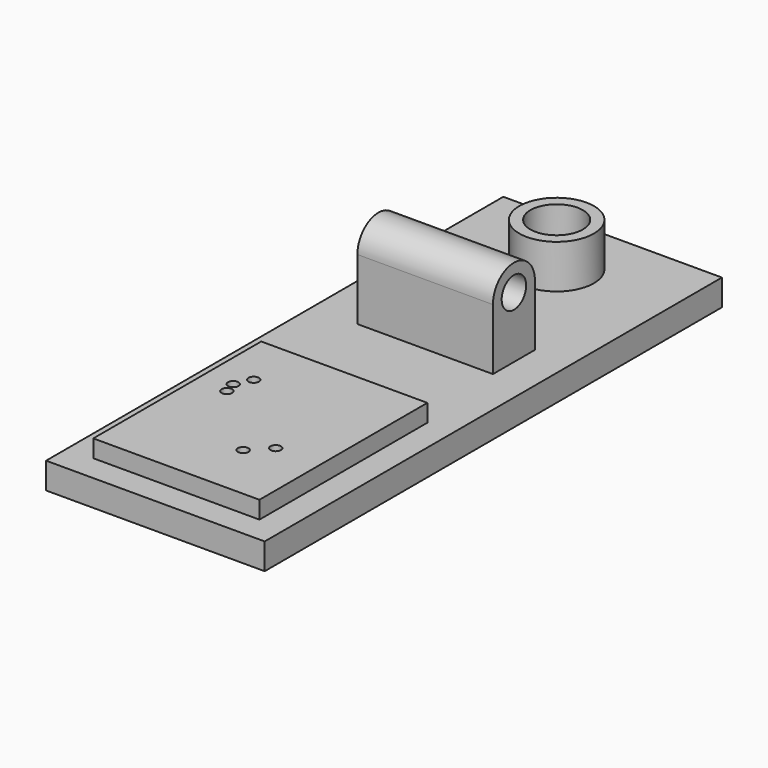
from build123d import *

# Parameters (mm, degrees)
F0_W      = 5.4119601846
F0_H      = 3
F0_W_2    = 25
F0_H_2    = 35.3582080007
F0_R      = 4.2675896262
F0_W_3    = 4.1414871812
F0_W_4    = 3.0508699417
F0_W_5    = 6.3956826925
F0_W_6    = 19
F0_H_3    = 13.8665742949
F0_R_2    = 0.6
F1_DEPTH  = 3
F2_DEPTH  = 2
F0_R_3    = 3
F3_DEPTH  = 5
F4_DEPTH  = 3
F8_DEPTH  = 15.5
F9_W      = 25
F9_H      = 65.3582080007
F9_R      = 1.5
F9_R_2    = 0.6
F10_DEPTH = 3


with BuildPart() as f1:
    # F0 (on Top) → F1 (new body)
    with BuildSketch(Plane.XY):
        with Locations((-13.243149966, -1.5)):
            Rectangle(F0_W, F0_H)
        with Locations((-9.5, 44.6791040003)):
            Rectangle(F0_W_2, F0_H_2)
        with Locations((-9.5, 54.3582080007)):
            Circle(F0_R, mode=Mode.SUBTRACT)
        with Locations((-2.0707435906, -1.5)):
            Rectangle(F0_W_3, F0_H)
        with Locations((-17.4745650291, -1.5)):
            Rectangle(F0_W_4, F0_H)
        with Locations((-7.3393285275, -1.5)):
            Rectangle(F0_W_5, F0_H)
        Polygon((0, 10.1334257051), (0, 0), (0, -3), (3, -3), (3, 27), (-22, 27), (-22, -3), (-19, -3), (-19, 0), (-19, 10.1334257051), (-19, 24), (0, 24), align=None)
        with Locations((-9.5, 17.0667128526)):
            Rectangle(F0_W_6, F0_H_3)
        with Locations((-15.8, 16)):
            Circle(F0_R_2, mode=Mode.SUBTRACT)
        with Locations((-15.4, 14.6)):
            Circle(F0_R_2, mode=Mode.SUBTRACT)
        with Locations((-14.9, 17.8)):
            Circle(F0_R_2, mode=Mode.SUBTRACT)
        Polygon((-4.1414871812, 0), (0, 0), (0, 10.1334257051), (-19, 10.1334257051), (-19, 0), (-15.9491300583, 0), (-10.5371698737, 0), align=None)
        with Locations((-7.14, 6.6)):
            Circle(F0_R_2, mode=Mode.SUBTRACT)
        with Locations((-5.1, 8.7)):
            Circle(F0_R_2, mode=Mode.SUBTRACT)
    extrude(amount=-F1_DEPTH)

    # F0 (on Top) → F2 (join)
    with BuildSketch(Plane.XY):
        with Locations((-9.5, 17.0667128526)):
            Rectangle(F0_W_6, F0_H_3)
        with Locations((-15.8, 16)):
            Circle(F0_R_2, mode=Mode.SUBTRACT)
        with Locations((-15.4, 14.6)):
            Circle(F0_R_2, mode=Mode.SUBTRACT)
        with Locations((-14.9, 17.8)):
            Circle(F0_R_2, mode=Mode.SUBTRACT)
        Polygon((-4.1414871812, 0), (0, 0), (0, 10.1334257051), (-19, 10.1334257051), (-19, 0), (-15.9491300583, 0), (-10.5371698737, 0), align=None)
        with Locations((-7.14, 6.6)):
            Circle(F0_R_2, mode=Mode.SUBTRACT)
        with Locations((-5.1, 8.7)):
            Circle(F0_R_2, mode=Mode.SUBTRACT)
    extrude(amount=F2_DEPTH)

    # F0 (on Top) → F3 (join)
    with BuildSketch(Plane.XY):
        with Locations((-9.5, 54.3582080007)):
            Circle(F0_R)
        with Locations((-9.5, 54.3582080007)):
            Circle(F0_R_3, mode=Mode.SUBTRACT)
    extrude(amount=F3_DEPTH)

    # F0 (on Top) → F4 (join)
    with BuildSketch(Plane.XY):
        with Locations((-9.5, 54.3582080007)):
            Circle(F0_R)
        with Locations((-9.5, 54.3582080007)):
            Circle(F0_R_3, mode=Mode.SUBTRACT)
        with Locations((-9.5, 54.3582080007)):
            Circle(F0_R_3)
    extrude(amount=-F4_DEPTH)

    # F7 (on offset) → F8 (join)
    with BuildSketch(Plane(origin=(-16.8, 0, 0), x_dir=(0, -1, 0), z_dir=(-1, 0, 0))):
        with BuildLine():
            ThreePointArc((-35, 7), (-38, 10), (-41, 7))
            Line((-41, 7), (-39.75, 7))
            ThreePointArc((-39.75, 7), (-38, 8.75), (-36.25, 7))
            Line((-36.25, 7), (-35, 7))
        make_face()
        with BuildLine():
            Line((-41, 7), (-41, 0))
            Line((-41, 0), (-35, 0))
            Line((-35, 0), (-35, 7))
            Line((-35, 7), (-36.25, 7))
            ThreePointArc((-36.25, 7), (-38, 5.25), (-39.75, 7))
            Line((-39.75, 7), (-41, 7))
        make_face()
    extrude(amount=-F8_DEPTH)

    # F9 (on face) → F10 (join)
    with BuildSketch(Plane(origin=(0, 0, -3), x_dir=(1, 0, 0), z_dir=(0, 0, -1))):
        with Locations((-9.5, -29.6791040003)):
            Rectangle(F9_W, F9_H)
        with Locations((-9.5, -54.3582080007)):
            Circle(F9_R, mode=Mode.SUBTRACT)
        with Locations((-15.8, -16)):
            Circle(F9_R_2, mode=Mode.SUBTRACT)
        with Locations((-14.9, -17.8)):
            Circle(F9_R_2, mode=Mode.SUBTRACT)
        with Locations((-15.4, -14.6)):
            Circle(F9_R_2, mode=Mode.SUBTRACT)
        with Locations((-7.14, -6.6)):
            Circle(F9_R_2, mode=Mode.SUBTRACT)
        with Locations((-5.1, -8.7)):
            Circle(F9_R_2, mode=Mode.SUBTRACT)
    extrude(amount=-F10_DEPTH)


solid = f1.part
